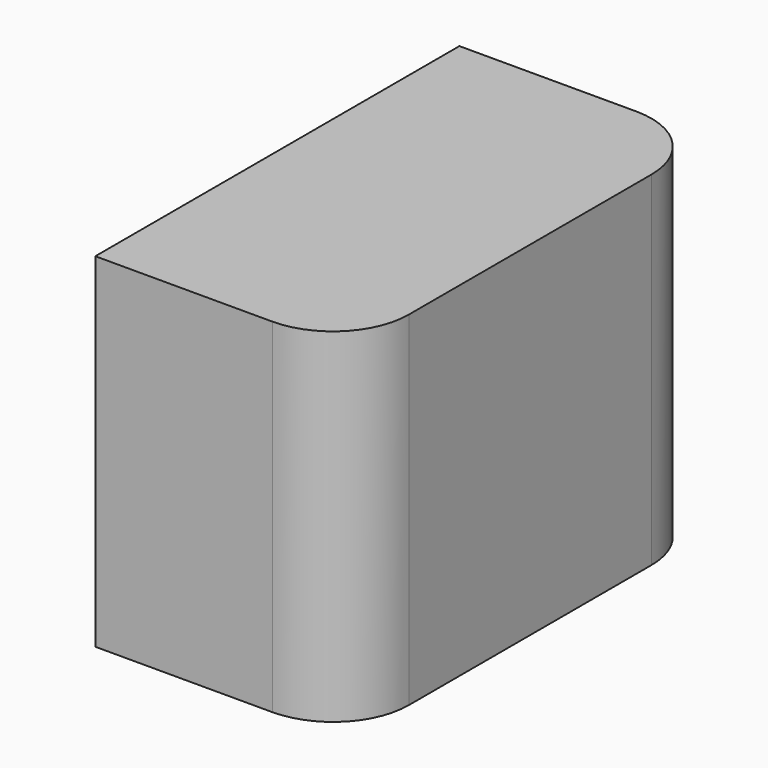
from build123d import *

# Parameters (mm, degrees)
PAD_DEPTH    = 3.4
SKETCH001_R  = 1.6
POCKET_DEPTH = 3.5


with BuildPart() as part:
    # Sketch → Pad (new body, symmetric)
    with BuildSketch(Plane.XY):
        with BuildLine():
            ThreePointArc((3.5, -4.5), (4.56066, -4.06066), (5, -3))
            Line((5, 3), (5, -3))
            ThreePointArc((5, 3), (4.56066, 4.06066), (3.5, 4.5))
            Line((3.5, 4.5), (0, 4.5))
            Line((0, 4.5), (0, -4.5))
            Line((0, -4.5), (3.5, -4.5))
        make_face()
    extrude(amount=PAD_DEPTH, both=True)

    # Sketch001 (on Face5 of Pad) → Pocket (cut)
    with BuildSketch(Plane(origin=(0, 0, 0), x_dir=(0, -1, 0), z_dir=(-1, 0, 0))):
        Circle(SKETCH001_R)
    extrude(amount=-POCKET_DEPTH, mode=Mode.SUBTRACT)


solid = part.part
